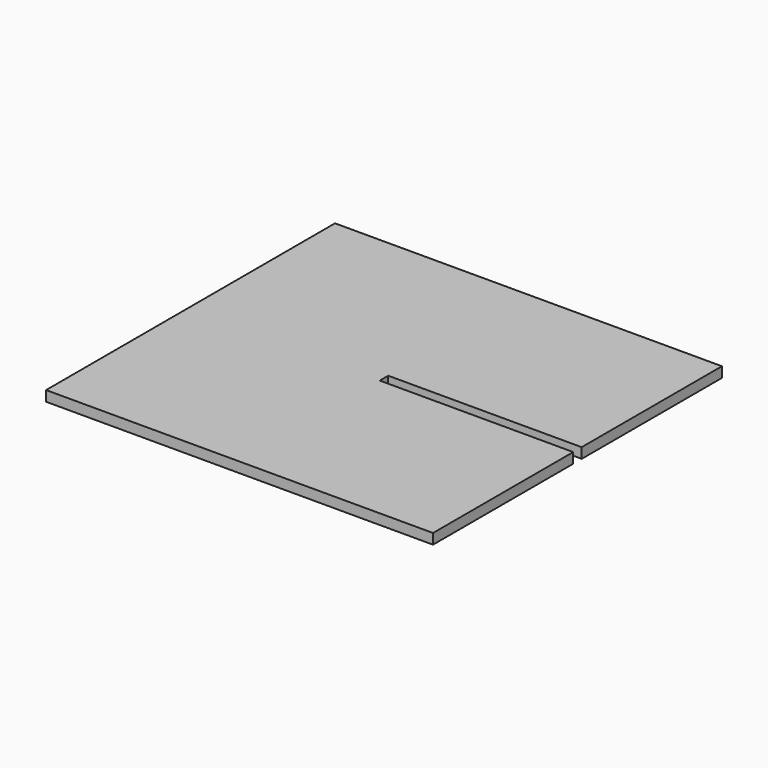
from build123d import *

# Parameters (mm, degrees)
PAD_DEPTH    = 4
SKETCH001_W  = 4
SKETCH001_H  = 1
PAD001_DEPTH = 1
SKETCH002_W  = 4
SKETCH002_H  = 1
PAD002_DEPTH = 1


with BuildPart() as part:
    # Sketch → Pad (new body)
    with BuildSketch(Plane.XY):
        Polygon((75, 70), (-75, 70), (-75, -70), (75, -70), (75, -2.05), (0, -2.05), (0, 2.05), (75, 2.05), align=None)
    extrude(amount=PAD_DEPTH)

    # Sketch001 (on Face9 of Pad) → Pad001 (join)
    with BuildSketch(Plane(origin=(0, 0, 0), x_dir=(1, 0, 0), z_dir=(0, 0, -1))):
        with Locations((-73, 2.55)):
            Rectangle(SKETCH001_W, SKETCH001_H)
    extrude(amount=PAD001_DEPTH)

    # Sketch002 (on Face4 of Pad001) → Pad002 (join)
    with BuildSketch(Plane(origin=(0, 0, 0), x_dir=(1, 0, 0), z_dir=(0, 0, -1))):
        with Locations((-73, -2.55)):
            Rectangle(SKETCH002_W, SKETCH002_H)
    extrude(amount=PAD002_DEPTH)


solid = part.part
